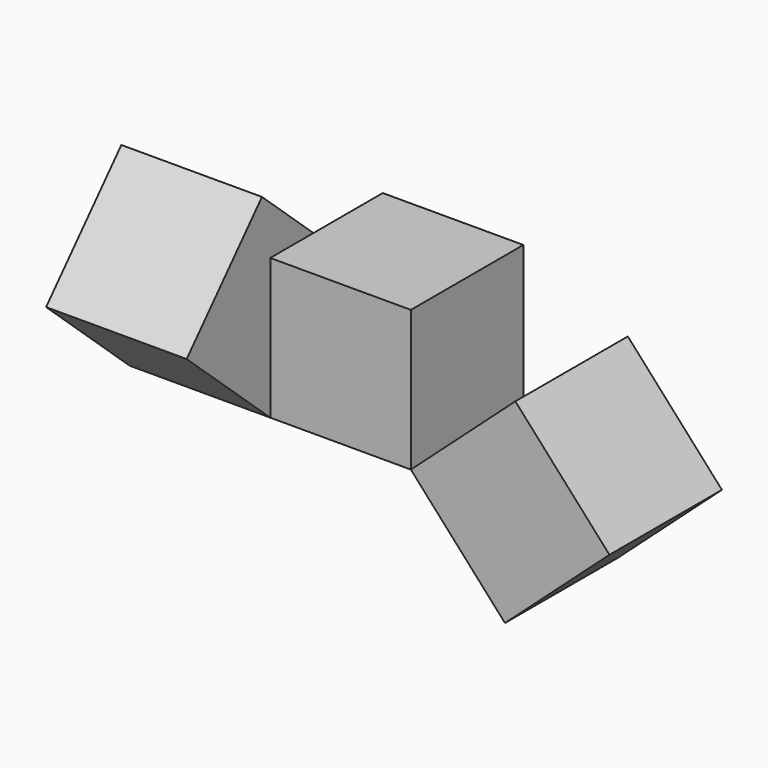
from build123d import *

# Parameters (mm, degrees)
BOX_W                  = 10
BOX_H                  = 10
BOX_DEPTH              = 10
BOX001_W               = 10
BOX001_H               = 10
BOX001_DEPTH           = 10
BOX001_PLACEMENT_ANGLE = 48
BOX002_W               = 10
BOX002_H               = 10
BOX002_DEPTH           = 10
BOX002_PLACEMENT_ANGLE = 48


with BuildPart() as box:
    # Box → Box (new body)
    with BuildSketch(Plane.XY):
        with Locations((5, 5)):
            Rectangle(BOX_W, BOX_H)
    extrude(amount=BOX_DEPTH)


with BuildPart() as box001:
    # Box001 → Box001 (new body)
    with BuildSketch(Plane.XY):
        with Locations((5, 5)):
            Rectangle(BOX001_W, BOX001_H)
    extrude(amount=BOX001_DEPTH)


with BuildPart() as box001_1:
    # Box001 placement: moved
    add(box001.part.moved(Location((10, 0, 0))).rotate(Axis((10, 0, 0), (0, 1, 0)), BOX001_PLACEMENT_ANGLE))


with BuildPart() as box002:
    # Box002 → Box002 (new body)
    with BuildSketch(Plane.XY):
        with Locations((5, 5)):
            Rectangle(BOX002_W, BOX002_H)
    extrude(amount=BOX002_DEPTH)


with BuildPart() as box002_1:
    # Box002 placement: moved
    add(box002.part.moved(Location((-10, 0, 0))).rotate(Axis((-10, 0, 0), (1, 0, 0)), BOX002_PLACEMENT_ANGLE))


solid = Compound([box.part, box001_1.part, box002_1.part])
